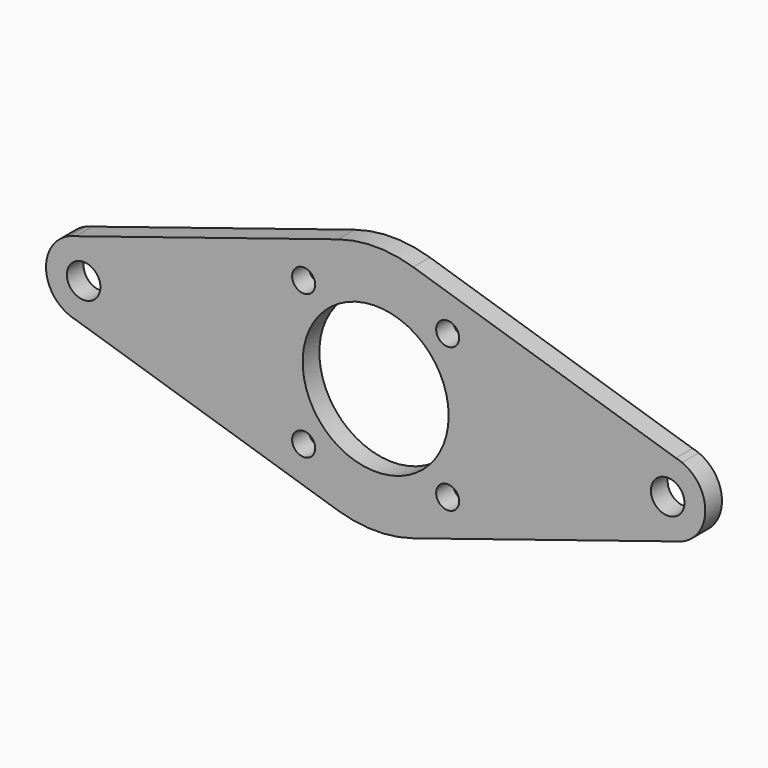
from build123d import *

# Parameters (mm, degrees)
F0_R     = 1.7526
F0_R_2   = 2.5527
F0_R_3   = 11.1125
F1_DEPTH = 3.175


with BuildPart() as f1:
    # F0 (on Front) → F1 (new body)
    with BuildSketch(Plane.XZ):
        with BuildLine():
            Line((-46.642908, 5.291286), (-45.682848, 5.593446))
            ThreePointArc((-45.682848, 5.593446), (-46.169528, 5.463494), (-46.642908, 5.291286))
        make_face()
        with BuildLine():
            Line((-5.71905, 18.171268), (-45.682848, 5.593446))
            Line((-45.682848, 5.593446), (-46.642908, 5.291286))
            ThreePointArc((-46.642908, 5.291286), (-50.1777, 0), (-46.642908, -5.291286))
            Line((-46.642908, -5.291286), (-45.682848, -5.593446))
            Line((-45.682848, -5.593446), (-5.71905, -18.171268))
            ThreePointArc((-5.71905, -18.171268), (0, -19.05), (5.71905, -18.171268))
            Line((5.71905, -18.171268), (45.682848, -5.593446))
            Line((45.682848, -5.593446), (46.642908, -5.291286))
            ThreePointArc((46.642908, -5.291286), (50.1777, 0), (46.642908, 5.291286))
            Line((46.642908, 5.291286), (45.682848, 5.593446))
            Line((45.682848, 5.593446), (5.71905, 18.171268))
            ThreePointArc((5.71905, 18.171268), (0, 19.05), (-5.71905, 18.171268))
        make_face()
        with Locations((-10.960097, -10.960097)):
            Circle(F0_R, mode=Mode.SUBTRACT)
        with Locations((-44.45, 0)):
            Circle(F0_R_2, mode=Mode.SUBTRACT)
        with Locations((10.960097, -10.960097)):
            Circle(F0_R, mode=Mode.SUBTRACT)
        Circle(F0_R_3, mode=Mode.SUBTRACT)
        with Locations((44.45, 0)):
            Circle(F0_R_2, mode=Mode.SUBTRACT)
        with Locations((-10.960097, 10.960097)):
            Circle(F0_R, mode=Mode.SUBTRACT)
        with Locations((10.960097, 10.960097)):
            Circle(F0_R, mode=Mode.SUBTRACT)
        with BuildLine():
            Line((-45.682848, -5.593446), (-46.642908, -5.291286))
            ThreePointArc((-46.642908, -5.291286), (-46.169528, -5.463494), (-45.682848, -5.593446))
        make_face()
        with BuildLine():
            ThreePointArc((46.642908, 5.291286), (46.169528, 5.463494), (45.682848, 5.593446))
            Line((45.682848, 5.593446), (46.642908, 5.291286))
        make_face()
        with BuildLine():
            ThreePointArc((45.682848, -5.593446), (46.169528, -5.463494), (46.642908, -5.291286))
            Line((46.642908, -5.291286), (45.682848, -5.593446))
        make_face()
    extrude(amount=F1_DEPTH)


solid = f1.part
